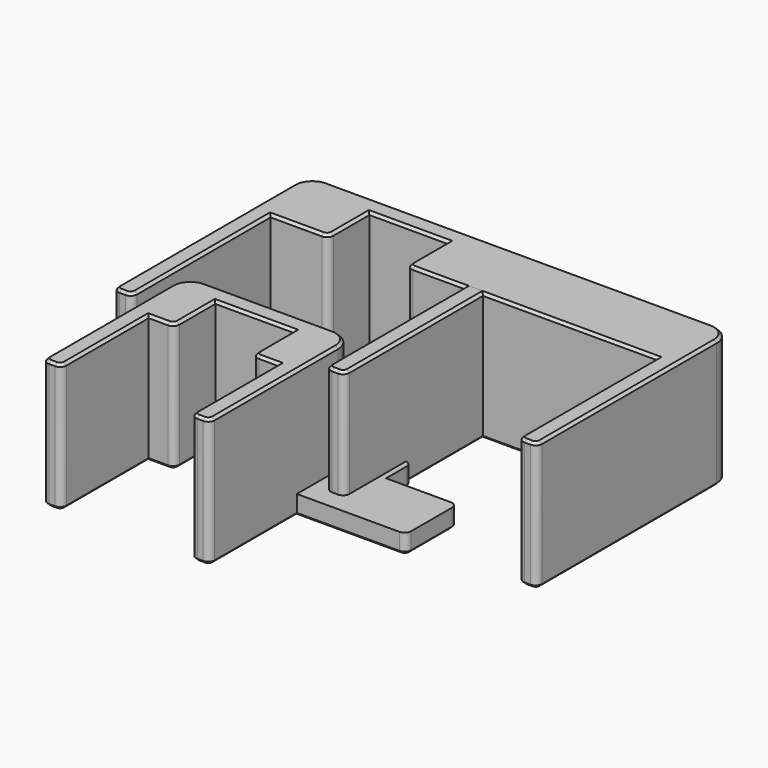
from build123d import *

# Parameters (mm, degrees)
BOX002_W        = 30
BOX002_H        = 15
BOX002_DEPTH    = 10
BOX001_W        = 7.8
BOX001_H        = 10
BOX001_DEPTH    = 4
FILLET001_R     = 1
CHAMFER001_SIZE = 0.4
BOX_W           = 30
BOX_H           = 10
BOX_DEPTH       = 4
FILLET_R        = 1
CHAMFER_SIZE    = 0.4
BOX009_W        = 12.2
BOX009_H        = 8
BOX009_DEPTH    = 20
BOX010_W        = 20.2
BOX010_H        = 20
BOX010_DEPTH    = 20
BOX011_W        = 26
BOX011_H        = 28
BOX011_DEPTH    = 20
FILLET008_R     = 1
FILLET009_R     = 3
CHAMFER004_SIZE = 0.4
BOX004_W        = 30.2
BOX004_H        = 30
BOX004_DEPTH    = 20
BOX005_W        = 12.2
BOX005_H        = 8
BOX005_DEPTH    = 20
BOX003_W        = 36
BOX003_H        = 38
BOX003_DEPTH    = 20
FILLET002_R     = 3
FILLET003_R     = 1
FILLET010_R     = 1
CHAMFER005_SIZE = 0.4
BOX007_W        = 60.2
BOX007_H        = 30
BOX007_DEPTH    = 20
BOX008_W        = 12.2
BOX008_H        = 8
BOX008_DEPTH    = 20
BOX006_W        = 66
BOX006_H        = 38
BOX006_DEPTH    = 20
FILLET004_R     = 3
FILLET005_R     = 1
FILLET011_R     = 1
CHAMFER006_SIZE = 0.4


with BuildPart() as cube002:
    # Box002 → Box002 (new body)
    with BuildSketch(Plane.XY.offset(3)):
        with Locations((15, 7.5)):
            Rectangle(BOX002_W, BOX002_H)
    extrude(amount=BOX002_DEPTH)


with BuildPart() as chamfer001:
    # Box001 → Box001 (new body)
    with BuildSketch(Plane(origin=(11.1, 5, 0), x_dir=(1, 0, 0), z_dir=(0, 0, 1))):
        with Locations((3.9, 5)):
            Rectangle(BOX001_W, BOX001_H)
    extrude(amount=BOX001_DEPTH)

    # Fillet001
    fillet001_edges = [chamfer001.edges().sort_by_distance(p)[0] for p in [
        (11.1, 15, 2),
        (18.9, 15, 2),
    ]]
    fillet(fillet001_edges, radius=FILLET001_R)

    # Chamfer001
    chamfer001_edges = [chamfer001.edges().sort_by_distance(p)[0] for p in [
        (11.1, 9.5, 0),
        (11.392893, 14.707107, 0),
        (15, 5, 0),
        (18.9, 9.5, 0),
        (18.607107, 14.707107, 0),
        (15, 15, 0),
    ]]
    chamfer(chamfer001_edges, length=CHAMFER001_SIZE)


with BuildPart() as cut:
    # Box → Box (new body)
    with BuildSketch(Plane.XY):
        with Locations((15, 5)):
            Rectangle(BOX_W, BOX_H)
    extrude(amount=BOX_DEPTH)

    # Fillet
    fillet_edges = [cut.edges().sort_by_distance(p)[0] for p in [
        (0, 0, 2),
        (0, 10, 2),
        (30, 0, 2),
        (30, 10, 2),
    ]]
    fillet(fillet_edges, radius=FILLET_R)

    # Chamfer
    chamfer_edges = [cut.edges().sort_by_distance(p)[0] for p in [
        (0, 5, 0),
        (0.292893, 0.292893, 0),
        (0.292893, 9.707107, 0),
        (15, 0, 0),
        (29.707107, 0.292893, 0),
        (30, 5, 0),
        (29.707107, 9.707107, 0),
        (15, 10, 0),
    ]]
    chamfer(chamfer_edges, length=CHAMFER_SIZE)

    # Fusion: union Chamfer001
    add(chamfer001.part)

    # Cut: cut Cube002
    add(cube002.part, mode=Mode.SUBTRACT)


with BuildPart() as cube009:
    # Box009 → Box009 (new body)
    with BuildSketch(Plane(origin=(-6.1, 0, 0), x_dir=(1, 0, 0), z_dir=(0, 0, 1))):
        with Locations((6.1, 4)):
            Rectangle(BOX009_W, BOX009_H)
    extrude(amount=BOX009_DEPTH)


with BuildPart() as fusion003:
    # Box010 → Box010 (new body)
    with BuildSketch(Plane(origin=(-10.1, -20, 0), x_dir=(1, 0, 0), z_dir=(0, 0, 1))):
        with Locations((10.1, 10)):
            Rectangle(BOX010_W, BOX010_H)
    extrude(amount=BOX010_DEPTH)

    # Fusion003: union Cube009
    add(cube009.part)


with BuildPart() as obj1:
    # Box011 → Box011 (new body)
    with BuildSketch(Plane(origin=(-13, -17, 0), x_dir=(1, 0, 0), z_dir=(0, 0, 1))):
        with Locations((13, 14)):
            Rectangle(BOX011_W, BOX011_H)
    extrude(amount=BOX011_DEPTH)

    # Cut003: cut Fusion003
    add(fusion003.part, mode=Mode.SUBTRACT)

    # Fillet008
    fillet008_edges = [obj1.edges().sort_by_distance(p)[0] for p in [
        (-13, -17, 10),
        (-10.1, -17, 10),
        (13, -17, 10),
        (10.1, -17, 10),
        (6.1, 0, 10),
        (-6.1, 0, 10),
    ]]
    fillet(fillet008_edges, radius=FILLET008_R)

    # Fillet009
    fillet009_edges = [obj1.edges().sort_by_distance(p)[0] for p in [
        (-13, 11, 10),
        (13, 11, 10),
    ]]
    fillet(fillet009_edges, radius=FILLET009_R)

    # Chamfer004
    chamfer004_edges = [obj1.edges().sort_by_distance(p)[0] for p in [
        (-13, -4, 20),
        (-13, -4, 0),
        (13, -4, 20),
        (12.12132, 10.12132, 20),
        (0, 11, 20),
        (-12.12132, 10.12132, 20),
        (-12.707107, -16.707107, 20),
        (-11.55, -17, 20),
        (-10.392893, -16.707107, 20),
        (-10.1, -8, 20),
        (-8.6, 0, 20),
        (-6.392893, 0.292893, 20),
        (-6.1, 4.5, 20),
        (0, 8, 20),
        (6.1, 4.5, 20),
        (6.392893, 0.292893, 20),
        (8.6, 0, 20),
        (10.1, -8, 20),
        (10.392893, -16.707107, 20),
        (11.55, -17, 20),
        (12.707107, -16.707107, 20),
        (-12.12132, 10.12132, 0),
        (-12.707107, -16.707107, 0),
        (13, -4, 0),
        (12.12132, 10.12132, 0),
        (0, 11, 0),
        (-11.55, -17, 0),
        (-10.392893, -16.707107, 0),
        (-10.1, -8, 0),
        (-8.6, 0, 0),
        (-6.392893, 0.292893, 0),
        (-6.1, 4.5, 0),
        (0, 8, 0),
        (6.1, 4.5, 0),
        (6.392893, 0.292893, 0),
        (8.6, 0, 0),
        (10.1, -8, 0),
        (10.392893, -16.707107, 0),
        (11.55, -17, 0),
        (12.707107, -16.707107, 0),
    ]]
    chamfer(chamfer004_edges, length=CHAMFER004_SIZE)


with BuildPart() as cube004:
    # Box004 → Box004 (new body)
    with BuildSketch(Plane(origin=(-15.1, 0, 0), x_dir=(1, 0, 0), z_dir=(0, 0, 1))):
        with Locations((15.1, 15)):
            Rectangle(BOX004_W, BOX004_H)
    extrude(amount=BOX004_DEPTH)


with BuildPart() as fusion004:
    # Box005 → Box005 (new body)
    with BuildSketch(Plane(origin=(-6.1, 30, 0), x_dir=(1, 0, 0), z_dir=(0, 0, 1))):
        with Locations((6.1, 4)):
            Rectangle(BOX005_W, BOX005_H)
    extrude(amount=BOX005_DEPTH)

    # Fusion004: union Cube004
    add(cube004.part)


with BuildPart() as obj2:
    # Box003 → Box003 (new body)
    with BuildSketch(Plane(origin=(-18, 3, 0), x_dir=(1, 0, 0), z_dir=(0, 0, 1))):
        with Locations((18, 19)):
            Rectangle(BOX003_W, BOX003_H)
    extrude(amount=BOX003_DEPTH)

    # Fillet002
    fillet002_edges = [obj2.edges().sort_by_distance(p)[0] for p in [
        (-18, 41, 10),
        (18, 41, 10),
    ]]
    fillet(fillet002_edges, radius=FILLET002_R)

    # Fillet003
    fillet003_edges = [obj2.edges().sort_by_distance(p)[0] for p in [
        (-18, 3, 10),
        (18, 3, 10),
    ]]
    fillet(fillet003_edges, radius=FILLET003_R)

    # Cut004: cut Fusion004
    add(fusion004.part, mode=Mode.SUBTRACT)

    # Fillet010
    fillet010_edges = [obj2.edges().sort_by_distance(p)[0] for p in [
        (15.1, 3, 10),
        (6.1, 30, 10),
        (-6.1, 30, 10),
        (-15.1, 3, 10),
    ]]
    fillet(fillet010_edges, radius=FILLET010_R)

    # Chamfer005
    chamfer005_edges = [obj2.edges().sort_by_distance(p)[0] for p in [
        (16.55, 3, 20),
        (17.707107, 3.292893, 20),
        (18, 21, 20),
        (17.12132, 40.12132, 20),
        (0, 41, 20),
        (-17.12132, 40.12132, 20),
        (-18, 21, 20),
        (-17.707107, 3.292893, 20),
        (-16.55, 3, 20),
        (-15.392893, 3.292893, 20),
        (-15.1, 17, 20),
        (-11.1, 30, 20),
        (-6.392893, 30.292893, 20),
        (-6.1, 34.5, 20),
        (0, 38, 20),
        (6.1, 34.5, 20),
        (6.392893, 30.292893, 20),
        (11.1, 30, 20),
        (15.1, 17, 20),
        (15.392893, 3.292893, 20),
        (16.55, 3, 0),
        (15.392893, 3.292893, 0),
        (17.707107, 3.292893, 0),
        (15.1, 17, 0),
        (18, 21, 0),
        (11.1, 30, 0),
        (17.12132, 40.12132, 0),
        (6.392893, 30.292893, 0),
        (0, 41, 0),
        (6.1, 34.5, 0),
        (-17.12132, 40.12132, 0),
        (0, 38, 0),
        (-18, 21, 0),
        (-6.1, 34.5, 0),
        (-17.707107, 3.292893, 0),
        (-6.392893, 30.292893, 0),
        (-16.55, 3, 0),
        (-11.1, 30, 0),
        (-15.392893, 3.292893, 0),
        (-15.1, 17, 0),
    ]]
    chamfer(chamfer005_edges, length=CHAMFER005_SIZE)


with BuildPart() as cube007:
    # Box007 → Box007 (new body)
    with BuildSketch(Plane(origin=(-15.1, 0, 0), x_dir=(1, 0, 0), z_dir=(0, 0, 1))):
        with Locations((30.1, 15)):
            Rectangle(BOX007_W, BOX007_H)
    extrude(amount=BOX007_DEPTH)


with BuildPart() as fusion005:
    # Box008 → Box008 (new body)
    with BuildSketch(Plane(origin=(-6.1, 30, 0), x_dir=(1, 0, 0), z_dir=(0, 0, 1))):
        with Locations((6.1, 4)):
            Rectangle(BOX008_W, BOX008_H)
    extrude(amount=BOX008_DEPTH)

    # Fusion005: union Cube007
    add(cube007.part)


with BuildPart() as obj3:
    # Box006 → Box006 (new body)
    with BuildSketch(Plane(origin=(-18, 3, 0), x_dir=(1, 0, 0), z_dir=(0, 0, 1))):
        with Locations((33, 19)):
            Rectangle(BOX006_W, BOX006_H)
    extrude(amount=BOX006_DEPTH)

    # Fillet004
    fillet004_edges = [obj3.edges().sort_by_distance(p)[0] for p in [
        (-18, 41, 10),
        (48, 41, 10),
    ]]
    fillet(fillet004_edges, radius=FILLET004_R)

    # Fillet005
    fillet005_edges = [obj3.edges().sort_by_distance(p)[0] for p in [
        (-18, 3, 10),
        (48, 3, 10),
    ]]
    fillet(fillet005_edges, radius=FILLET005_R)

    # Cut005: cut Fusion005
    add(fusion005.part, mode=Mode.SUBTRACT)

    # Fillet011
    fillet011_edges = [obj3.edges().sort_by_distance(p)[0] for p in [
        (45.1, 3, 10),
        (6.1, 30, 10),
        (-6.1, 30, 10),
        (-15.1, 3, 10),
    ]]
    fillet(fillet011_edges, radius=FILLET011_R)

    # Chamfer006
    chamfer006_edges = [obj3.edges().sort_by_distance(p)[0] for p in [
        (46.55, 3, 20),
        (47.707107, 3.292893, 20),
        (48, 21, 20),
        (47.12132, 40.12132, 20),
        (15, 41, 20),
        (-17.12132, 40.12132, 20),
        (-18, 21, 20),
        (-17.707107, 3.292893, 20),
        (-16.55, 3, 20),
        (-15.392893, 3.292893, 20),
        (-15.1, 17, 20),
        (-11.1, 30, 20),
        (-6.392893, 30.292893, 20),
        (-6.1, 34.5, 20),
        (0, 38, 20),
        (6.1, 34.5, 20),
        (6.392893, 30.292893, 20),
        (26.1, 30, 20),
        (45.1, 17, 20),
        (45.392893, 3.292893, 20),
        (46.55, 3, 0),
        (45.392893, 3.292893, 0),
        (47.707107, 3.292893, 0),
        (45.1, 17, 0),
        (48, 21, 0),
        (26.1, 30, 0),
        (47.12132, 40.12132, 0),
        (6.392893, 30.292893, 0),
        (15, 41, 0),
        (6.1, 34.5, 0),
        (-17.12132, 40.12132, 0),
        (0, 38, 0),
        (-18, 21, 0),
        (-6.1, 34.5, 0),
        (-17.707107, 3.292893, 0),
        (-6.392893, 30.292893, 0),
        (-16.55, 3, 0),
        (-11.1, 30, 0),
        (-15.392893, 3.292893, 0),
        (-15.1, 17, 0),
    ]]
    chamfer(chamfer006_edges, length=CHAMFER006_SIZE)


solid = Compound([cut.part, obj1.part, obj2.part, obj3.part])
